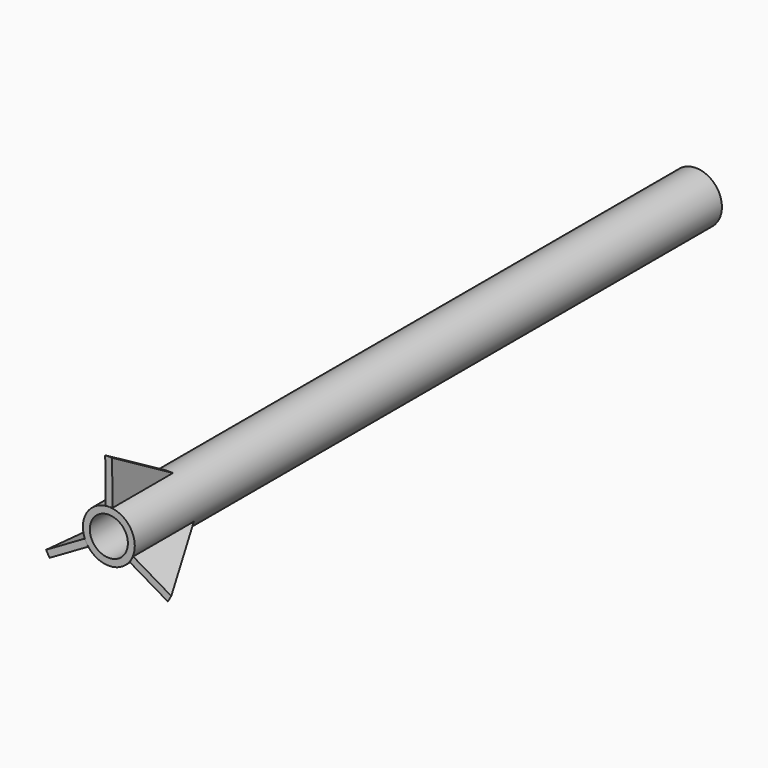
from build123d import *

# Parameters (mm, degrees)
F0_R     = 9.525
F0_R_2   = 6.985
F1_DEPTH = 134.62
F3_DEPTH = 1.27
F4_ANGLE = 120
F5_ANGLE = -120


with BuildPart() as f1:
    # F0 (on Front) → F1 (new body, symmetric)
    with BuildSketch(Plane.XZ):
        Circle(F0_R)
        Circle(F0_R_2, mode=Mode.SUBTRACT)
    extrude(amount=F1_DEPTH, both=True)


with BuildPart() as f3:
    # F2 (on Right) → F3 (new body, symmetric)
    with BuildSketch(Plane.YZ):
        Polygon((-134.6844136715, 25.7889423519), (-134.5633299269, 9.5397522673), (-106.7561209202, 9.5397522673), align=None)
    extrude(amount=F3_DEPTH, both=True)


with BuildPart() as f4_1:
    # F4: copy of F3
    add(f3.part.rotate(Axis((0, -134.62, 0), (0, -1, 0)), F4_ANGLE))


with BuildPart() as f5_1:
    # F5: copy of F3
    add(f3.part.rotate(Axis((0, -134.62, 0), (0, -1, 0)), F5_ANGLE))


solid = Compound([f1.part, f3.part, f4_1.part, f5_1.part])
